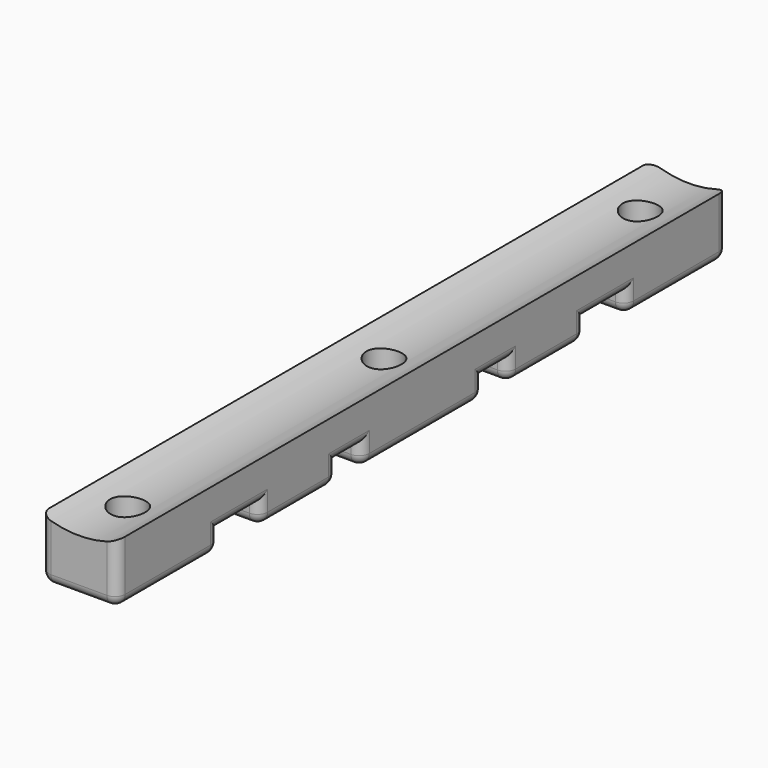
from build123d import *

# Parameters (mm, degrees)
SKETCH_W        = 15
SKETCH_H        = 150
SKETCH_R        = 3.45
PAD_DEPTH       = 12
SKETCH003_W     = 10
SKETCH003_H     = 4
SKETCH003_W_2   = 6
POCKET002_DEPTH = 15.001
SKETCH004_R     = 20
POCKET003_DEPTH = 150.001
FILLET_R        = 2


with BuildPart() as part:
    # Sketch → Pad (new body)
    with BuildSketch(Plane.XY):
        with Locations((7.5, 75)):
            Rectangle(SKETCH_W, SKETCH_H)
        with Locations((7.5, 138)):
            Circle(SKETCH_R, mode=Mode.SUBTRACT)
        with Locations((7.5, 75)):
            Circle(SKETCH_R, mode=Mode.SUBTRACT)
        with Locations((7.5, 12)):
            Circle(SKETCH_R, mode=Mode.SUBTRACT)
    extrude(amount=PAD_DEPTH)

    # Sketch003 → Pocket002 (cut, through all)
    with BuildSketch(Plane.YZ):
        with Locations((30, 2)):
            Rectangle(SKETCH003_W, SKETCH003_H)
        with Locations((57, 2)):
            Rectangle(SKETCH003_W_2, SKETCH003_H)
        with Locations((120, 2)):
            Rectangle(SKETCH003_W, SKETCH003_H)
        with Locations((93, 2)):
            Rectangle(SKETCH003_W_2, SKETCH003_H)
    extrude(amount=POCKET002_DEPTH, mode=Mode.SUBTRACT)

    # Sketch004 → Pocket003 (cut, through all)
    with BuildSketch(Plane.XZ):
        with Locations((7.5, 30.540496)):
            Circle(SKETCH004_R)
    extrude(amount=-POCKET003_DEPTH, mode=Mode.SUBTRACT)

    # Fillet
    fillet_edges = [part.edges().sort_by_distance(p)[0] for p in [
        (15, 25, 2),
        (15, 30, 4),
        (15, 35, 2),
        (15, 12.5, 0),
        (7.5, 25, 0),
        (7.5, 35, 0),
        (0, 12.5, 0),
        (0, 25, 2),
        (0, 30, 4),
        (0, 35, 2),
        (0, 44.5, 0),
        (15, 44.5, 0),
        (7.5, 0, 0),
        (0, 0, 6),
        (15, 0, 6),
        (0, 75, 0),
        (15, 75, 0),
        (15, 105.5, 0),
        (0, 105.5, 0),
        (0, 137.5, 0),
        (15, 137.5, 0),
        (0, 150, 6),
        (7.5, 150, 0),
        (15, 150, 6),
        (15, 54, 2),
        (15, 57, 4),
        (15, 60, 2),
        (15, 90, 2),
        (15, 93, 4),
        (15, 96, 2),
        (15, 115, 2),
        (15, 120, 4),
        (15, 125, 2),
        (7.5, 54, 0),
        (7.5, 60, 0),
        (0, 54, 2),
        (0, 57, 4),
        (0, 60, 2),
        (7.5, 90, 0),
        (7.5, 96, 0),
        (0, 93, 4),
        (0, 96, 2),
        (0, 90, 2),
        (7.5, 115, 0),
        (7.5, 125, 0),
        (0, 125, 2),
        (0, 120, 4),
        (0, 115, 2),
    ]]
    fillet(fillet_edges, radius=FILLET_R)


solid = part.part
